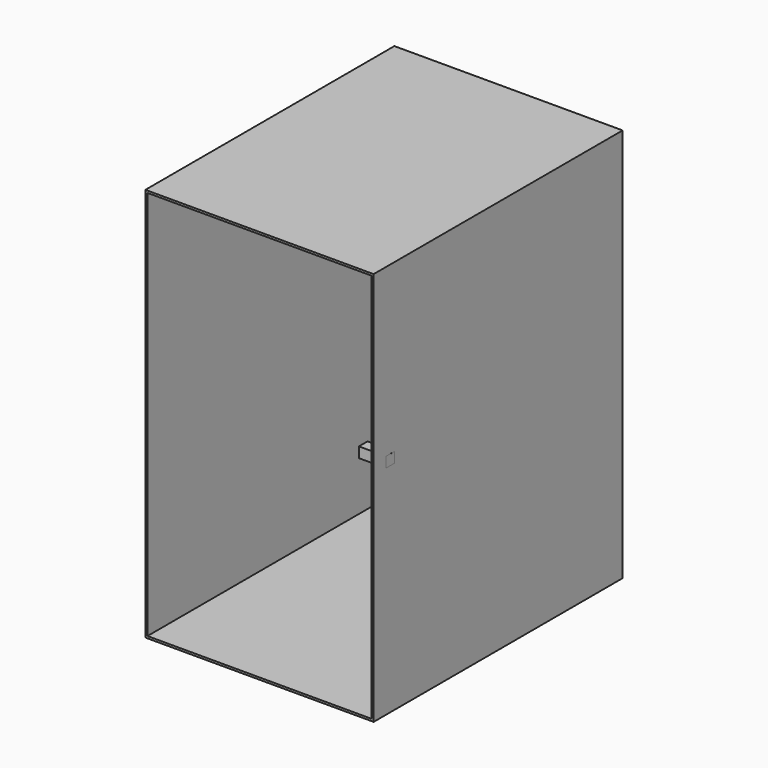
from build123d import *

# Parameters (mm, degrees)
F0_W          = 279.4
F0_H          = 482.6
F1_DEPTH      = 190.5
F2_T          = -2.54
F3_W          = 13.208
F3_H          = 12.7
F4_DEPTH      = 0.0254
F4_DEPTH_BACK = 33.02


with BuildPart() as f1:
    # F0 (on Front) → F1 (new body, symmetric)
    with BuildSketch(Plane.XZ):
        Rectangle(F0_W, F0_H)
    extrude(amount=F1_DEPTH, both=True)

    # F2
    f2_openings = [f1.faces().sort_by_distance(p)[0] for p in [
        (0, -190.5, 0),
    ]]
    offset(amount=F2_T, openings=f2_openings)

    # F3 (on face) → F4 (join, two sides)
    with BuildSketch(Plane.YZ.offset(139.7)) as f4_sk:
        with Locations((-165.152445, 30.9372)):
            Rectangle(F3_W, F3_H)
    extrude(amount=F4_DEPTH)
    extrude(f4_sk.sketch, amount=-F4_DEPTH_BACK)


solid = f1.part
